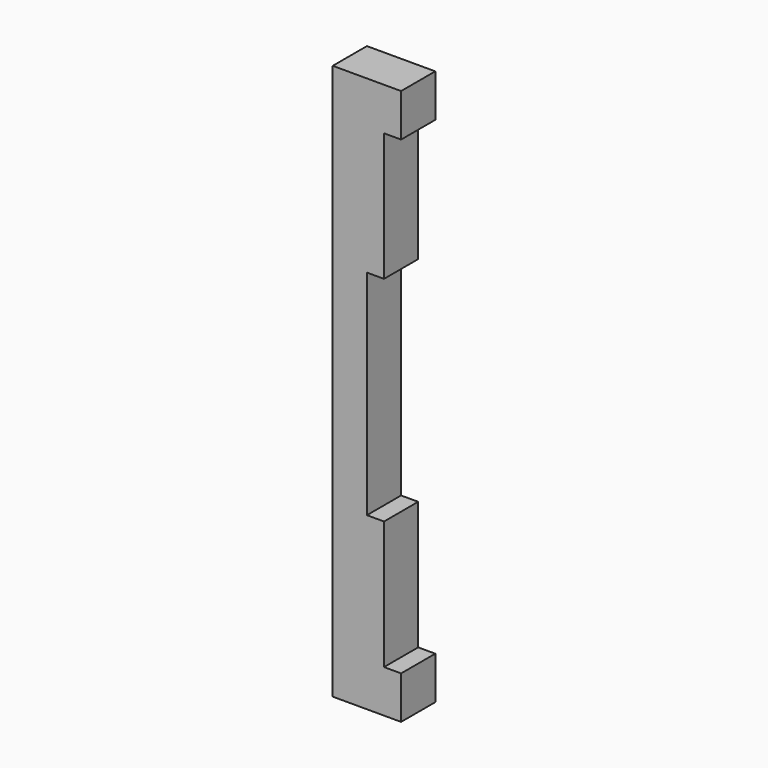
from build123d import *

# Parameters (mm, degrees)
F0_W     = 10
F0_H     = 75
F1_DEPTH = 25


with BuildPart() as f1:
    # F0 (on Front) → F1 (new body)
    with BuildSketch(Plane.XZ):
        Polygon((10, 162.5), (-10, 162.5), (-10, -162.5), (10, -162.5), (10, -137.5), (10, -62.5), (10, 62.5), (10, 137.5), align=None)
        Polygon((30, 162.5), (10, 162.5), (10, 137.5), (20, 137.5), (30, 137.5), align=None)
        with Locations((15, 100)):
            Rectangle(F0_W, F0_H)
        Polygon((10, -137.5), (10, -162.5), (30, -162.5), (30, -137.5), (20, -137.5), align=None)
        with Locations((15, -100)):
            Rectangle(F0_W, F0_H)
    extrude(amount=F1_DEPTH)


solid = f1.part
